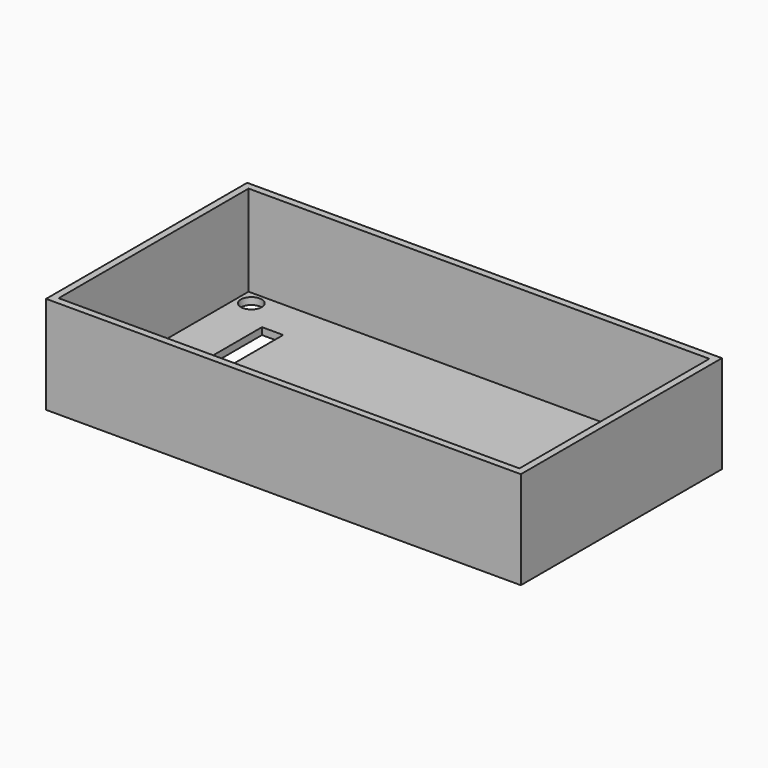
from build123d import *

# Parameters (mm, degrees)
SKETCH064_W     = 68
SKETCH064_H     = 36
SKETCH064_W_2   = 3.04
SKETCH064_H_2   = 13.335
PAD044_DEPTH    = 1
SKETCH065_W     = 68
SKETCH065_H     = 36
SKETCH065_W_2   = 66
SKETCH065_H_2   = 34
PAD045_DEPTH    = 13
SKETCH068_R     = 1.5
POCKET012_DEPTH = 1.001


with BuildPart() as part:
    # Sketch064 → Pad044 (new body)
    with BuildSketch(Plane.XY):
        Rectangle(SKETCH064_W, SKETCH064_H)
        with Locations((-24.94, 4.5625)):
            Rectangle(SKETCH064_W_2, SKETCH064_H_2, mode=Mode.SUBTRACT)
    extrude(amount=PAD044_DEPTH)

    # Sketch065 (on Face10 of Pad044) → Pad045 (join)
    with BuildSketch(Plane.XY.offset(1)):
        Rectangle(SKETCH065_W, SKETCH065_H)
        Rectangle(SKETCH065_W_2, SKETCH065_H_2, mode=Mode.SUBTRACT)
    extrude(amount=PAD045_DEPTH)

    # Sketch068 (on Face15 of Pad045) → Pocket012 (cut, through all)
    with BuildSketch(Plane.XY.offset(1)):
        with Locations((-31, 15)):
            Circle(SKETCH068_R)
        with Locations((31, 15)):
            Circle(SKETCH068_R)
        with Locations((31, -15)):
            Circle(SKETCH068_R)
        with Locations((-31, -15)):
            Circle(SKETCH068_R)
    extrude(amount=-POCKET012_DEPTH, mode=Mode.SUBTRACT)


solid = part.part
